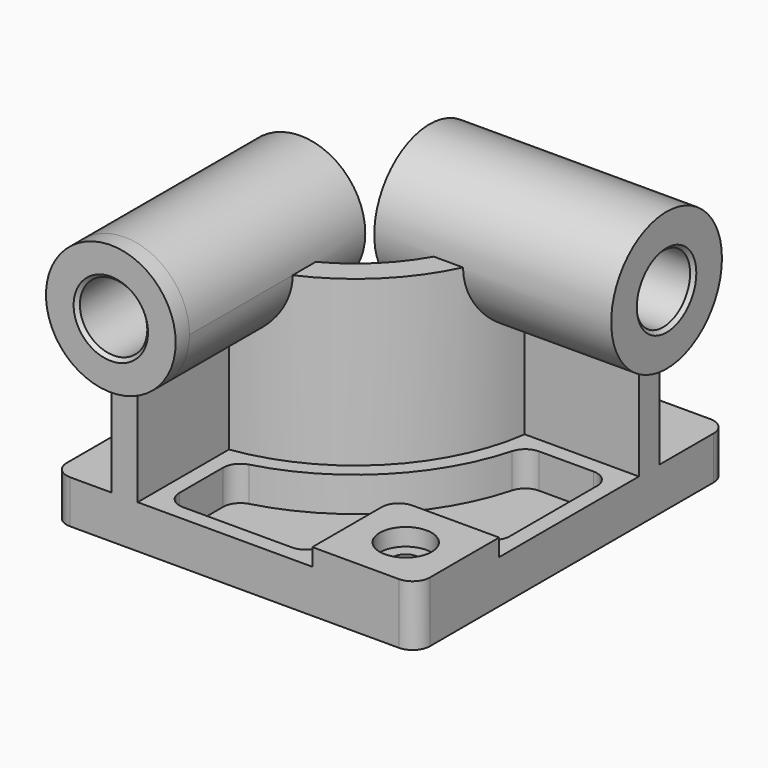
from build123d import *

# Parameters (mm, degrees)
F0_W            = 210
F0_H            = 225
F1_DEPTH        = 25
F3_DEPTH        = 95
F4_R            = 37.5
F5_DEPTH        = 10
F5_DEPTH_BACK   = 127
F6_R            = 40
F7_DEPTH        = 10
F7_DEPTH_BACK   = 127
F8_W            = 60
F8_H            = 60
F9_DEPTH        = 10
F10_R           = 10
F12_DEPTH       = 20
F14_D           = 15
F14_CBORE_D     = 30
F14_CBORE_DEPTH = 10
F15_R           = 10
F16_R           = 19.5
F17_DEPTH       = 235.001
F18_R           = 19.5
F19_DEPTH       = 220.001
F20_SIZE        = 2
F21_R           = 10


with BuildPart() as f1:
    # F0 (on Top) → F1 (new body)
    with BuildSketch(Plane.XY):
        Rectangle(F0_W, F0_H)
    extrude(amount=F1_DEPTH)

    # F2 (on face) → F3 (join)
    with BuildSketch(Plane.XY.offset(25)):
        with BuildLine():
            Line((-71, -32.5), (-71, -112.5))
            Line((-71, -112.5), (-56, -112.5))
            Line((-56, -112.5), (-56, -46.481817))
            ThreePointArc((-56, -46.481817), (7.488853, -14.988853), (38.981817, 48.5))
            Line((38.981817, 48.5), (105, 48.5))
            Line((105, 48.5), (105, 63.5))
            Line((105, 63.5), (25, 63.5))
            ThreePointArc((25, 63.5), (-3.117749, -4.382251), (-71, -32.5))
        make_face()
    extrude(amount=F3_DEPTH)

    # F4 (on face) → F5 (join, two sides)
    with BuildSketch(Plane.XZ.offset(112.5)) as f5_sk:
        with Locations((-63.5, 120)):
            Circle(F4_R)
    extrude(amount=F5_DEPTH)
    extrude(f5_sk.sketch, amount=-F5_DEPTH_BACK)

    # F6 (on face) → F7 (join, two sides)
    with BuildSketch(Plane.YZ.offset(105)) as f7_sk:
        with Locations((56, 120)):
            Circle(F6_R)
    extrude(amount=F7_DEPTH)
    extrude(f7_sk.sketch, amount=-F7_DEPTH_BACK)

    # F8 (on face) → F9 (join)
    with BuildSketch(Plane.XY.offset(25)):
        with Locations((75, -82.5)):
            Rectangle(F8_W, F8_H)
    extrude(amount=F9_DEPTH)

    # F10
    f10_edges = [f1.edges().sort_by_distance(p)[0] for p in [
        (45, -52.5, 30),
    ]]
    fillet(f10_edges, radius=F10_R)

    # F11 (on face) → F12 (cut)
    with BuildSketch(Plane.XY.offset(25)):
        with BuildLine():
            ThreePointArc((46.575508, 39.5), (13.852814, -21.352814), (-47, -54.075508))
            Line((-47, -54.075508), (-47, -103.5))
            Line((-47, -103.5), (36, -103.5))
            Line((36, -103.5), (36, -62.5))
            ThreePointArc((36, -62.5), (41.564971, -49.064971), (55, -43.5))
            Line((55, -43.5), (96, -43.5))
            Line((96, -43.5), (96, 39.5))
            Line((96, 39.5), (46.575508, 39.5))
        make_face()
    extrude(amount=-F12_DEPTH, mode=Mode.SUBTRACT)

    # F14 (through all)
    with Locations(Plane.XY.offset(35)):
        with Locations((75, -82.5)):
            CounterBoreHole(F14_D / 2, F14_CBORE_D / 2, F14_CBORE_DEPTH)

    # F15
    f15_edges = [f1.edges().sort_by_distance(p)[0] for p in [
        (-47, -54.075508, 15),
        (46.575508, 39.5, 15),
        (96, 39.5, 15),
        (96, -43.5, 15),
        (36, -103.5, 15),
        (-47, -103.5, 15),
    ]]
    fillet(f15_edges, radius=F15_R)

    # F16 (on face) → F17 (cut, through all)
    with BuildSketch(Plane.XZ.offset(122.5)):
        with Locations((-63.5, 120)):
            Circle(F16_R)
    extrude(amount=-F17_DEPTH, mode=Mode.SUBTRACT)

    # F18 (on face) → F19 (cut, through all)
    with BuildSketch(Plane.YZ.offset(115)):
        with Locations((56, 120)):
            Circle(F18_R)
    extrude(amount=-F19_DEPTH, mode=Mode.SUBTRACT)

    # F20
    f20_edges = [f1.edges().sort_by_distance(p)[0] for p in [
        (-83, -122.5, 120),
        (115, 36.5, 120),
        (-22, 36.5, 120),
        (-83, 14.5, 120),
    ]]
    chamfer(f20_edges, length=F20_SIZE)

    # F21
    f21_edges = [f1.edges().sort_by_distance(p)[0] for p in [
        (105, -112.5, 17.5),
        (-105, -112.5, 12.5),
        (-105, 112.5, 12.5),
        (105, 112.5, 12.5),
    ]]
    fillet(f21_edges, radius=F21_R)


solid = f1.part
